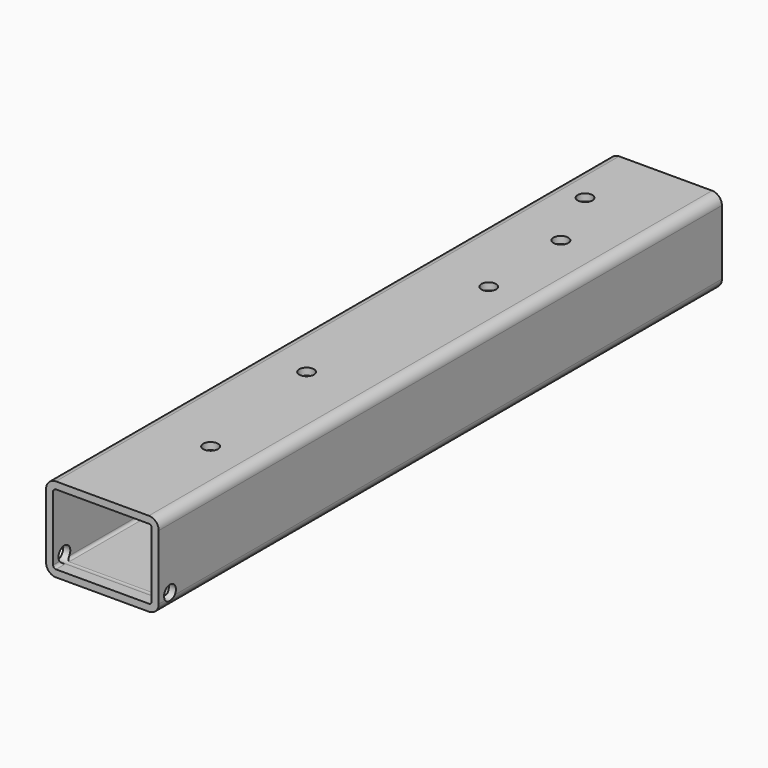
from build123d import *

# Parameters (mm, degrees)
F1_DEPTH = 250
F4_D     = 10.5
F6_D     = 10.5


with BuildPart() as f1:
    # F0 (on Front) → F1 (new body, symmetric)
    with BuildSketch(Plane.XZ):
        with BuildLine():
            ThreePointArc((40, 23), (37.9497474683, 27.9497474683), (33, 30))
            Line((33, 30), (-33, 30))
            ThreePointArc((-33, 30), (-37.9497474683, 27.9497474683), (-40, 23))
            Line((-40, 23), (-40, -23))
            ThreePointArc((-40, -23), (-37.9497474683, -27.9497474683), (-33, -30))
            Line((-33, -30), (33, -30))
            ThreePointArc((33, -30), (37.9497474683, -27.9497474683), (40, -23))
            Line((40, -23), (40, 23))
        make_face()
        with BuildLine():
            Line((-33, 25), (33, 25))
            ThreePointArc((33, 25), (34.4142135624, 24.4142135624), (35, 23))
            Line((35, 23), (35, -23))
            ThreePointArc((35, -23), (34.4142135624, -24.4142135624), (33, -25))
            Line((33, -25), (-33, -25))
            ThreePointArc((-33, -25), (-34.4142135624, -24.4142135624), (-35, -23))
            Line((-35, -23), (-35, 23))
            ThreePointArc((-35, 23), (-34.4142135624, 24.4142135624), (-33, 25))
        make_face(mode=Mode.SUBTRACT)
    extrude(amount=F1_DEPTH, both=True)

    # F4 (through all)
    with Locations(Plane.XY.offset(30)):
        with Locations((7.7468804084, -163.5783314705), (-6.5550529398, -60.4852437973), (8.3427932113, 82.5340524316), (4.7673056833, 151.0641425848), (-16.68558456, 199.3331462145)):
            Hole(F4_D / 2)

    # F6 (through all)
    with Locations(Plane.YZ.offset(40)):
        with Locations((-240, -20)):
            Hole(F6_D / 2)


solid = f1.part
